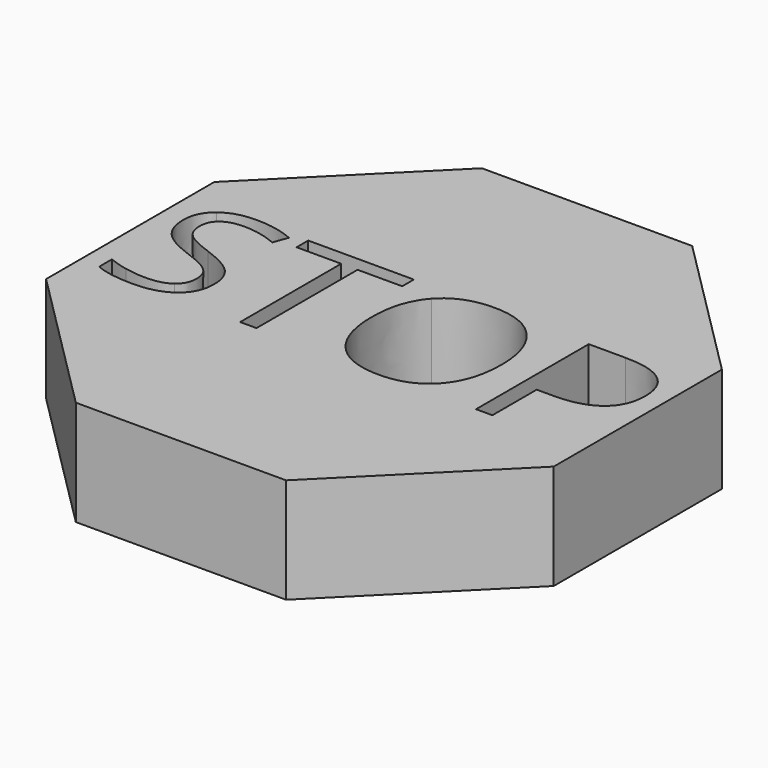
from build123d import *

# Parameters (mm, degrees)
F1_DEPTH = 25.4


with BuildPart() as f1:
    # F0 (on Top) → F1 (new body)
    with BuildSketch(Plane.XY):
        Polygon((-25.4, -37.7151333554), (25.4, -37.7151333554), (61.3210244843, -1.7941088711), (61.3210244843, 49.0058911289), (25.4, 84.9269156132), (-25.4, 84.9269156132), (-61.3210244843, 49.0058911289), (-61.3210244843, -1.7941088711), align=None)
        with BuildLine():
            add(Edge.make_bspline(
                [(-37.2578142017, 22.0965334461), (-35.2463953643, 19.9063218232), (-35.2463953643, 16.4198625051)],
                knots=[0, 0, 0, 1, 1, 1], degree=2))
            add(Edge.make_bspline(
                [(-35.2463953643, 16.4198625051), (-35.2463953643, 11.9276937683), (-38.5056388508, 9.4096953719)],
                knots=[0, 0, 0, 1, 1, 1], degree=2))
            add(Edge.make_bspline(
                [(-38.5056388508, 9.4096953719), (-41.7648823372, 6.8916969755), (-47.3521568855, 6.8916969755)],
                knots=[0, 0, 0, 1, 1, 1], degree=2))
            add(Edge.make_bspline(
                [(-47.3521568855, 6.8916969755), (-53.4013127963, 6.8916969755), (-56.6642811325, 8.456133849)],
                knots=[0, 0, 0, 1, 1, 1], degree=2))
            Line((-56.6642811325, 8.456133849), (-56.6642811325, 12.2703799406))
            add(Edge.make_bspline(
                [(-56.6642811325, 12.2703799406), (-54.5634659023, 11.3913154117), (-52.0976154017, 10.8772861533)],
                knots=[0, 0, 0, 1, 1, 1], degree=2))
            add(Edge.make_bspline(
                [(-52.0976154017, 10.8772861533), (-49.6317649011, 10.3632568948), (-47.2106125969, 10.3632568948)],
                knots=[0, 0, 0, 1, 1, 1], degree=2))
            add(Edge.make_bspline(
                [(-47.2106125969, 10.3632568948), (-43.2548222168, 10.3632568948), (-41.2508530788, 11.8643713235)],
                knots=[0, 0, 0, 1, 1, 1], degree=2))
            add(Edge.make_bspline(
                [(-41.2508530788, 11.8643713235), (-39.2468839409, 13.3654857521), (-39.2468839409, 16.0473775352)],
                knots=[0, 0, 0, 1, 1, 1], degree=2))
            add(Edge.make_bspline(
                [(-39.2468839409, 16.0473775352), (-39.2468839409, 17.8129562924), (-39.9583302333, 18.9415857512)],
                knots=[0, 0, 0, 1, 1, 1], degree=2))
            add(Edge.make_bspline(
                [(-39.9583302333, 18.9415857512), (-40.6697765258, 20.0702152099), (-42.3347843412, 21.0275015825)],
                knots=[0, 0, 0, 1, 1, 1], degree=2))
            add(Edge.make_bspline(
                [(-42.3347843412, 21.0275015825), (-43.9997921565, 21.9847879551), (-47.3968550818, 23.1916392575)],
                knots=[0, 0, 0, 1, 1, 1], degree=2))
            add(Edge.make_bspline(
                [(-47.3968550818, 23.1916392575), (-52.1423135981, 24.8901707202), (-54.1798063834, 27.2182017819)],
                knots=[0, 0, 0, 1, 1, 1], degree=2))
            add(Edge.make_bspline(
                [(-54.1798063834, 27.2182017819), (-56.2172991686, 29.5462328437), (-56.2172991686, 33.2934316407)],
                knots=[0, 0, 0, 1, 1, 1], degree=2))
            add(Edge.make_bspline(
                [(-56.2172991686, 33.2934316407), (-56.2172991686, 37.2268729226), (-53.2634933575, 39.5549039844)],
                knots=[0, 0, 0, 1, 1, 1], degree=2))
            add(Edge.make_bspline(
                [(-53.2634933575, 39.5549039844), (-50.3096875463, 41.8829350461), (-45.4375841403, 41.8829350461)],
                knots=[0, 0, 0, 1, 1, 1], degree=2))
            add(Edge.make_bspline(
                [(-45.4375841403, 41.8829350461), (-40.3643388505, 41.8829350461), (-36.1031107951, 40.0205101967)],
                knots=[0, 0, 0, 1, 1, 1], degree=2))
            Line((-36.1031107951, 40.0205101967), (-37.3397608951, 36.578749075))
            add(Edge.make_bspline(
                [(-37.3397608951, 36.578749075), (-41.5562907541, 38.3443278323), (-45.5344302324, 38.3443278323)],
                knots=[0, 0, 0, 1, 1, 1], degree=2))
            add(Edge.make_bspline(
                [(-45.5344302324, 38.3443278323), (-48.6782033782, 38.3443278323), (-50.4475069852, 36.9959322413)],
                knots=[0, 0, 0, 1, 1, 1], degree=2))
            add(Edge.make_bspline(
                [(-50.4475069852, 36.9959322413), (-52.2168105921, 35.6475366503), (-52.2168105921, 33.2487334443)],
                knots=[0, 0, 0, 1, 1, 1], degree=2))
            add(Edge.make_bspline(
                [(-52.2168105921, 33.2487334443), (-52.2168105921, 31.4831546871), (-51.5649618948, 30.3508003786)],
                knots=[0, 0, 0, 1, 1, 1], degree=2))
            add(Edge.make_bspline(
                [(-51.5649618948, 30.3508003786), (-50.9131131975, 29.2184460702), (-49.3635757228, 28.2760590964)],
                knots=[0, 0, 0, 1, 1, 1], degree=2))
            add(Edge.make_bspline(
                [(-49.3635757228, 28.2760590964), (-47.8140382481, 27.3336721226), (-44.6255669059, 26.1938681148)],
                knots=[0, 0, 0, 1, 1, 1], degree=2))
            add(Edge.make_bspline(
                [(-44.6255669059, 26.1938681148), (-39.269233039, 24.286745069), (-37.2578142017, 22.0965334461)],
                knots=[0, 0, 0, 1, 1, 1], degree=2))
        make_face(mode=Mode.SUBTRACT)
        Polygon((-17.8066490745, 37.8824464696), (-17.8066490745, 7.3610280376), (-21.7624394547, 7.3610280376), (-21.7624394547, 37.8824464696), (-32.542154483, 37.8824464696), (-32.542154483, 41.3987045853), (-7.0269340462, 41.3987045853), (-7.0269340462, 37.8824464696), align=None, mode=Mode.SUBTRACT)
        with BuildLine():
            add(Edge.make_bspline(
                [(23.5242831834, 37.2790208184), (27.6439669503, 32.6229586949), (27.6439669503, 24.4282893575)],
                knots=[0, 0, 0, 1, 1, 1], degree=2))
            add(Edge.make_bspline(
                [(27.6439669503, 24.4282893575), (27.6439669503, 16.2559691183), (23.5093837846, 11.5738330469)],
                knots=[0, 0, 0, 1, 1, 1], degree=2))
            add(Edge.make_bspline(
                [(23.5093837846, 11.5738330469), (19.374800619, 6.8916969755), (12.0219473135, 6.8916969755)],
                knots=[0, 0, 0, 1, 1, 1], degree=2))
            add(Edge.make_bspline(
                [(12.0219473135, 6.8916969755), (4.5052006213, 6.8916969755), (0.4190405017, 11.4918863536)],
                knots=[0, 0, 0, 1, 1, 1], degree=2))
            add(Edge.make_bspline(
                [(0.4190405017, 11.4918863536), (-3.6671196179, 16.0920757316), (-3.6671196179, 24.4729875539)],
                knots=[0, 0, 0, 1, 1, 1], degree=2))
            add(Edge.make_bspline(
                [(-3.6671196179, 24.4729875539), (-3.6671196179, 32.7868520816), (0.4302150508, 37.3609675118)],
                knots=[0, 0, 0, 1, 1, 1], degree=2))
            add(Edge.make_bspline(
                [(0.4302150508, 37.3609675118), (4.5275497195, 41.9350829419), (12.0666455099, 41.9350829419)],
                knots=[0, 0, 0, 1, 1, 1], degree=2))
            add(Edge.make_bspline(
                [(12.0666455099, 41.9350829419), (19.4045994165, 41.9350829419), (23.5242831834, 37.2790208184)],
                knots=[0, 0, 0, 1, 1, 1], degree=2))
        make_face(mode=Mode.SUBTRACT)
        with BuildLine():
            add(Edge.make_bspline(
                [(44.0556547232, 41.3987045853), (56.809540092, 41.3987045853), (56.809540092, 31.4831546871)],
                knots=[0, 0, 0, 1, 1, 1], degree=2))
            add(Edge.make_bspline(
                [(56.809540092, 31.4831546871), (56.809540092, 26.3130633051), (53.2821074272, 23.5306005801)],
                knots=[0, 0, 0, 1, 1, 1], degree=2))
            add(Edge.make_bspline(
                [(53.2821074272, 23.5306005801), (49.7546747624, 20.7481378551), (43.1914895931, 20.7481378551)],
                knots=[0, 0, 0, 1, 1, 1], degree=2))
            Line((43.1914895931, 20.7481378551), (39.1835513172, 20.7481378551))
            Line((39.1835513172, 20.7481378551), (39.1835513172, 7.3610280376))
            Line((39.1835513172, 7.3610280376), (35.2277609371, 7.3610280376))
            Line((35.2277609371, 7.3610280376), (35.2277609371, 41.3987045853))
            Line((35.2277609371, 41.3987045853), (44.0556547232, 41.3987045853))
        make_face(mode=Mode.SUBTRACT)
    extrude(amount=F1_DEPTH)


solid = f1.part
